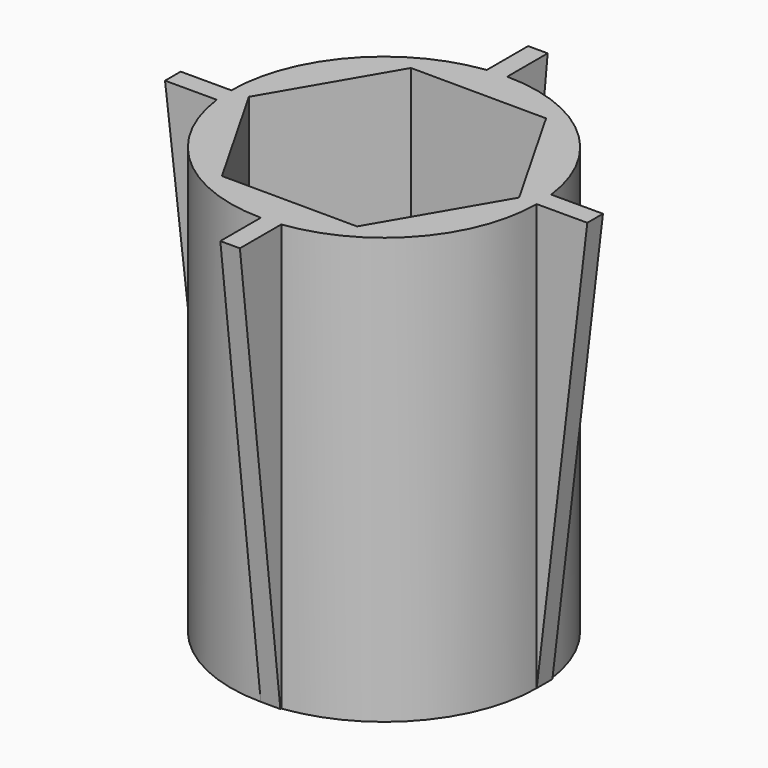
from build123d import *

# Parameters (mm, degrees)
F1_DEPTH = 12.7
F3_DEPTH = 25.4
F5_DEPTH = 25.4
F7_DEPTH = 25.4
F9_DEPTH = 25.4


with BuildPart() as f1:
    # F0 (on Top) → F1 (new body)
    with BuildSketch(Plane.XY):
        with BuildLine():
            Line((-2.004466, 3.509337), (2.036942, 3.490587))
            Line((2.036942, 3.490587), (4.041408, -0.01875))
            Line((4.041408, -0.01875), (4.041408, 0.564419))
            Line((4.041408, 0.564419), (4.530986, 0.564419))
            ThreePointArc((4.530986, 0.564419), (3.029542, 3.41618), (0.01875, 4.565967))
            Line((0.01875, 4.565967), (0.01875, 4.041408))
            Line((0.01875, 4.041408), (-0.564419, 4.041408))
            Line((-0.564419, 4.041408), (-0.564419, 4.530986))
            ThreePointArc((-0.564419, 4.530986), (-3.41618, 3.029542), (-4.565967, 0.01875))
            Line((-4.565967, 0.01875), (-4.041408, 0.01875))
            Line((-4.041408, 0.01875), (-2.004466, 3.509337))
        make_face()
        with BuildLine():
            ThreePointArc((4.566005, 0), (4.565996, -0.009375), (4.565967, -0.01875))
            Line((4.565967, -0.01875), (6.073408, -0.01875))
            Line((6.073408, -0.01875), (6.073408, 0.564419))
            Line((6.073408, 0.564419), (4.530986, 0.564419))
            ThreePointArc((4.530986, 0.564419), (4.557242, 0.282752), (4.566005, 0))
        make_face()
        with BuildLine():
            Line((4.041408, 0.564419), (4.041408, -0.01875))
            Line((4.041408, -0.01875), (4.565967, -0.01875))
            ThreePointArc((4.565967, -0.01875), (4.565996, -0.009375), (4.566005, 0))
            ThreePointArc((4.566005, 0), (4.557242, 0.282752), (4.530986, 0.564419))
            Line((4.530986, 0.564419), (4.041408, 0.564419))
        make_face()
        with BuildLine():
            ThreePointArc((-0.564419, 4.530986), (-0.273394, 4.557813), (0.01875, 4.565967))
            Line((0.01875, 4.565967), (0.01875, 6.073408))
            Line((0.01875, 6.073408), (-0.564419, 6.073408))
            Line((-0.564419, 6.073408), (-0.564419, 4.530986))
        make_face()
        with BuildLine():
            Line((0.01875, 4.041408), (0.01875, 4.565967))
            ThreePointArc((0.01875, 4.565967), (-0.273394, 4.557813), (-0.564419, 4.530986))
            Line((-0.564419, 4.530986), (-0.564419, 4.041408))
            Line((-0.564419, 4.041408), (0.01875, 4.041408))
        make_face()
        with BuildLine():
            ThreePointArc((-4.530986, -0.564419), (-4.557813, -0.273394), (-4.565967, 0.01875))
            Line((-4.565967, 0.01875), (-6.073408, 0.01875))
            Line((-6.073408, 0.01875), (-6.073408, -0.564419))
            Line((-6.073408, -0.564419), (-4.530986, -0.564419))
        make_face()
        with BuildLine():
            Line((-4.041408, -0.564419), (-4.041408, 0.01875))
            Line((-4.041408, 0.01875), (-4.565967, 0.01875))
            ThreePointArc((-4.565967, 0.01875), (-4.557813, -0.273394), (-4.530986, -0.564419))
            Line((-4.530986, -0.564419), (-4.041408, -0.564419))
        make_face()
        with BuildLine():
            Line((4.565967, -0.01875), (4.041408, -0.01875))
            Line((4.041408, -0.01875), (2.004466, -3.509337))
            Line((2.004466, -3.509337), (-2.036942, -3.490587))
            Line((-2.036942, -3.490587), (-4.041408, 0.01875))
            Line((-4.041408, 0.01875), (-4.041408, -0.564419))
            Line((-4.041408, -0.564419), (-4.530986, -0.564419))
            ThreePointArc((-4.530986, -0.564419), (-3.029542, -3.41618), (-0.01875, -4.565967))
            Line((-0.01875, -4.565967), (-0.01875, -4.041408))
            Line((-0.01875, -4.041408), (0.564419, -4.041408))
            Line((0.564419, -4.041408), (0.564419, -4.530986))
            ThreePointArc((0.564419, -4.530986), (3.41618, -3.029542), (4.565967, -0.01875))
        make_face()
        with BuildLine():
            ThreePointArc((-0.01875, -4.565967), (0.273394, -4.557813), (0.564419, -4.530986))
            Line((0.564419, -4.530986), (0.564419, -4.041408))
            Line((0.564419, -4.041408), (-0.01875, -4.041408))
            Line((-0.01875, -4.041408), (-0.01875, -4.565967))
        make_face()
        with BuildLine():
            Line((0.564419, -6.073408), (0.564419, -4.530986))
            ThreePointArc((0.564419, -4.530986), (0.273394, -4.557813), (-0.01875, -4.565967))
            Line((-0.01875, -4.565967), (-0.01875, -6.073408))
            Line((-0.01875, -6.073408), (0.564419, -6.073408))
        make_face()
    extrude(amount=F1_DEPTH)

    # F2 (on face) → F3 (cut)
    with BuildSketch(Plane.XZ.offset(0.01875)):
        Polygon((6.073408, 0), (6.073408, 12.7), (4.565967, 0), align=None)
    extrude(amount=-F3_DEPTH, mode=Mode.SUBTRACT)

    # F4 (on face) → F5 (cut)
    with BuildSketch(Plane(origin=(-0.01875, 0, 0), x_dir=(0, -1, 0), z_dir=(-1, 0, 0))):
        Polygon((6.073408, 0), (6.073408, 12.7), (4.565967, 0), align=None)
    extrude(amount=-F5_DEPTH, mode=Mode.SUBTRACT)

    # F6 (on face) → F7 (cut)
    with BuildSketch(Plane.YZ.offset(0.01875)):
        Polygon((6.073408, 0), (6.073408, 12.7), (4.565967, 0), align=None)
    extrude(amount=-F7_DEPTH, mode=Mode.SUBTRACT)

    # F8 (on face) → F9 (cut)
    with BuildSketch(Plane(origin=(0, 0.01875, 0), x_dir=(-1, 0, 0), z_dir=(0, 1, 0))):
        Polygon((6.073408, 0), (6.073408, 12.7), (4.565967, 0), align=None)
    extrude(amount=-F9_DEPTH, mode=Mode.SUBTRACT)


solid = f1.part
